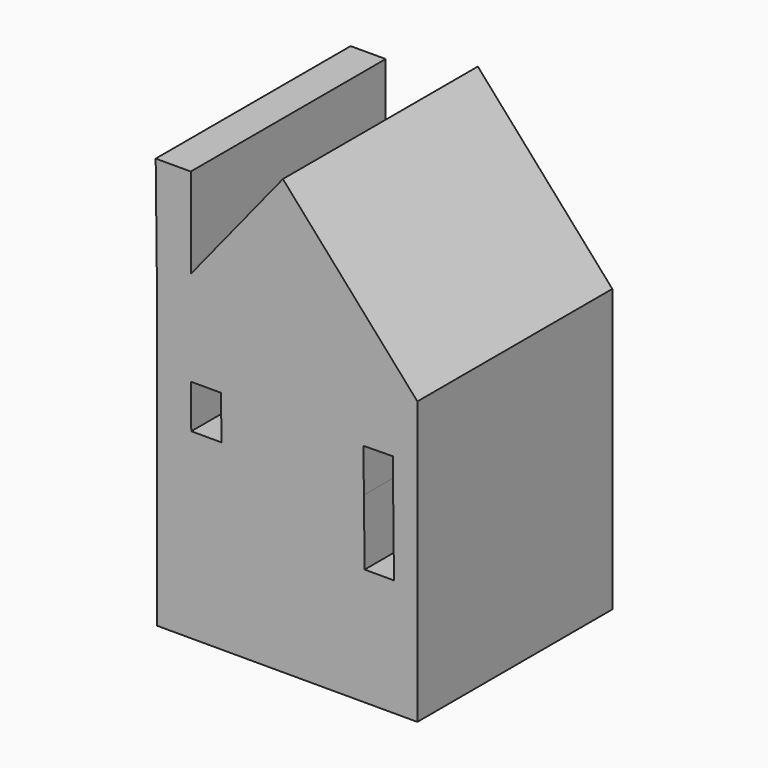
from build123d import *

# Parameters (mm, degrees)
F1_DEPTH = 50.8


with BuildPart() as f1:
    # F0 (on Front) → F1 (new body)
    with BuildSketch(Plane.XZ):
        Polygon((24.2315996438, 11.7347994819), (-30.0227999687, 11.1252004281), (-30.0227999687, -47.0915995538), (-12.6492008567, -47.0915995538), (0.2106198864, -47.0915995538), (24.2315996438, -47.0915995538), align=None)
        Polygon((-22.9104695769, -9.0717926099), (-23.0123996735, 0), (-16.7134850742, 0), (-16.6115549776, -9.0717926099), align=None, mode=Mode.SUBTRACT)
        Polygon((19.3547997624, -22.7076001465), (13.2331980053, -22.7076001465), (13.0799869214, -9.0717926099), (12.9788295568, -0.0687732536), (19.0996585819, 0), align=None, mode=Mode.SUBTRACT)
        Polygon((-23.0123996735, 19.7659269483), (-30.0227999687, 11.1252004281), (24.2315996438, 11.7347994819), (-3.8100008387, 43.4340015054), align=None)
        Polygon((-30.331036954, 38.5583345023), (-30.0227999687, 11.1252004281), (-23.0123996735, 19.7659269483), (-23.0123996735, 38.5674359982), align=None)
    extrude(amount=F1_DEPTH)


solid = f1.part
